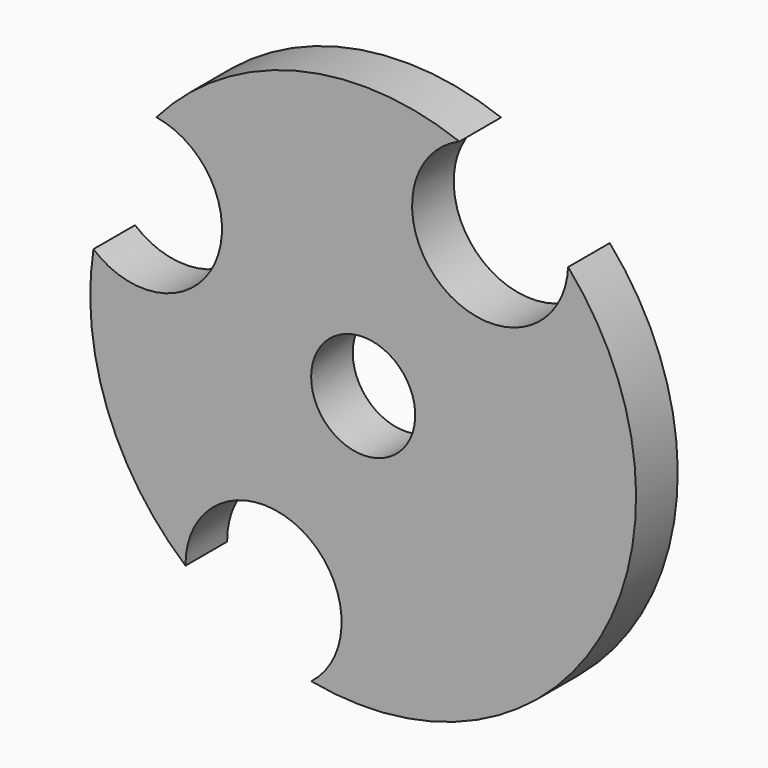
from build123d import *

# Parameters (mm, degrees)
F0_R     = 66.604368
F1_DEPTH = 12.7
F3_D     = 25.4
F4_D     = 38.1


with BuildPart() as f1:
    # F0 (on Front) → F1 (new body)
    with BuildSketch(Plane.XZ):
        Circle(F0_R)
    extrude(amount=F1_DEPTH)

    # F3 (through all)
    with Locations(Plane(origin=(0, 0, 0), x_dir=(1, 0, 0), z_dir=(0, 1, 0))):
        with Locations((0, 0)):
            Hole(F3_D / 2)

    # F4 (through all)
    with Locations(Plane.XZ.offset(12.7)):
        with Locations((-53.510338, 24.680197), (30.987347, 44.80923), (-24.312185, -50.30597)):
            Hole(F4_D / 2)


solid = f1.part
